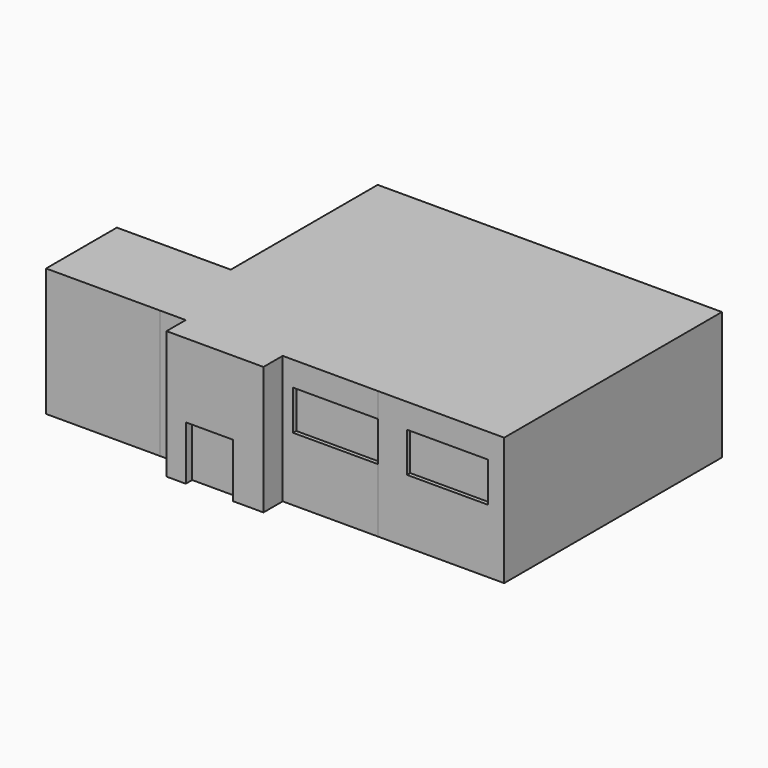
from build123d import *

# Parameters (mm, degrees)
F0_W     = 180.622216
F0_H     = 140.405509
F0_W_2   = 194.250329
F0_H_2   = 195.742518
F0_W_3   = 200.377738
F0_H_3   = 113.020826
F1_DEPTH = 203.2
F2_W     = 74.582949
F2_H     = 85.822828
F3_DEPTH = 12.7
F4_W     = 134.511486
F4_H     = 63.10866
F5_DEPTH = 6.35
F6_W     = 128.129702
F6_H     = 63.10866
F7_DEPTH = 6.35


with BuildPart() as f1:
    # F0 (on Top) → F1 (new body)
    with BuildSketch(Plane.XY):
        with Locations((-436.033275, -70.202754)):
            Rectangle(F0_W, F0_H)
        Polygon((-151.471838, 0), (-345.722167, 0), (-345.722167, -140.405509), (-304.799954, -140.405509), (-304.799954, -178.505509), (-150.988865, -178.505509), (-150.988865, -140.405509), (0, -140.405509), (0, 0), (200.377738, 0), (200.377738, 178.373605), (0, 178.373605), (0, 291.394431), (-345.722167, 291.394431), (-345.722167, 195.742518), (-151.471838, 195.742518), align=None)
        with Locations((-248.597002, 97.871259)):
            Rectangle(F0_W_2, F0_H_2)
        with Locations((100.188869, 234.884018)):
            Rectangle(F0_W_3, F0_H_3)
        with Locations((100.188869, -70.202754)):
            Rectangle(F0_W_3, F0_H)
    extrude(amount=F1_DEPTH)

    # F2 (on face) → F3 (cut)
    with BuildSketch(Plane.XZ.offset(178.505509)):
        with Locations((-236.978226, 42.911414)):
            Rectangle(F2_W, F2_H)
    extrude(amount=-F3_DEPTH, mode=Mode.SUBTRACT)

    # F4 (on face) → F5 (cut)
    with BuildSketch(Plane.XZ.offset(140.405509)):
        with Locations((-67.255743, 132.67624)):
            Rectangle(F4_W, F4_H)
    extrude(amount=-F5_DEPTH, mode=Mode.SUBTRACT)

    # F6 (on face) → F7 (cut)
    with BuildSketch(Plane.XZ.offset(140.405509)):
        with Locations((110.273594, 132.67624)):
            Rectangle(F6_W, F6_H)
    extrude(amount=-F7_DEPTH, mode=Mode.SUBTRACT)


solid = f1.part
